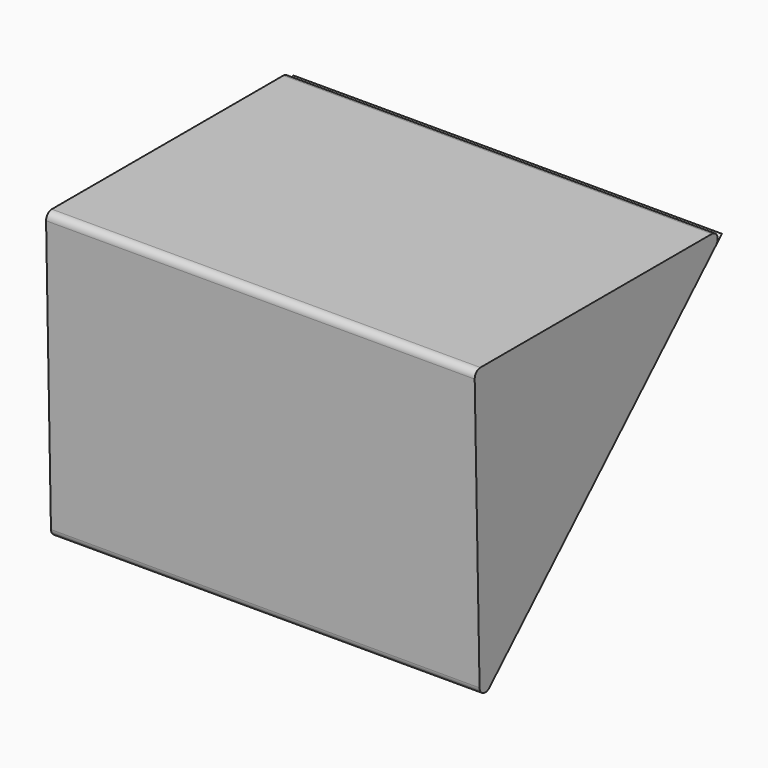
from build123d import *

# Parameters (mm, degrees)
F1_DEPTH = 300


with BuildPart() as f1:
    # F0 (on Right) → F1 (new body)
    with BuildSketch(Plane.YZ):
        with BuildLine():
            Line((142.1975861865, -3.4806107269), (137.0902379725, -8.4254704364))
            ThreePointArc((137.0902379725, -8.4254704364), (137.0103524179, -8.5084748822), (136.928575743, -8.5896168274))
            Line((136.928575743, -8.5896168274), (142.1975861865, -3.4806107269))
        make_face()
    extrude(amount=-F1_DEPTH)


with BuildPart() as f1b:
    # F0 (on Right) → F1, piece 2 (new body)
    with BuildSketch(Plane.YZ):
        with BuildLine():
            Line((133.4479650161, 0), (-69.100548343, 0))
            ThreePointArc((-69.100548343, 0), (-72.6751073989, -1.5039268378), (-74.0993163359, -5.1109889778))
            Line((-74.0993163359, -5.1109889778), (-69.8369527047, -197.0811045894))
            ThreePointArc((-69.8369527047, -197.0811045894), (-66.7376505265, -201.5952674599), (-61.3602551433, -200.5623302373))
            Line((-61.3602551433, -200.5623302373), (137.0902379725, -8.4254704364))
            ThreePointArc((137.0902379725, -8.4254704364), (138.0374830835, -3.0159828859), (133.4479650161, 0))
        make_face()
    extrude(amount=-F1_DEPTH)


solid = Compound([f1.part, f1b.part])
